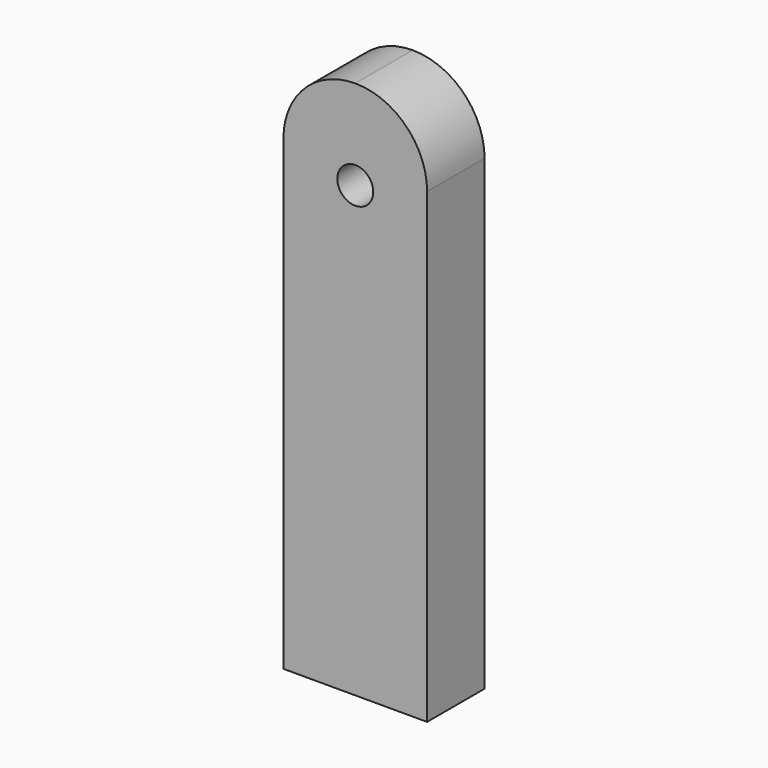
from build123d import *

# Parameters (mm, degrees)
F0_R     = 5
F1_DEPTH = 20
F3_D     = 5
F3_DEPTH = 15
F3_TIP   = 1.5021515476


with BuildPart() as f1:
    # F0 (on Front) → F1 (new body)
    with BuildSketch(Plane.XZ):
        with BuildLine():
            Line((-20, -75), (20, -75))
            Line((20, -75), (20, 55))
            ThreePointArc((20, 55), (14.1421356237, 69.1421356237), (0, 75))
            ThreePointArc((0, 75), (-14.1421356237, 69.1421356237), (-20, 55))
            Line((-20, 55), (-20, -75))
        make_face()
        with Locations((0, 50)):
            Circle(F0_R, mode=Mode.SUBTRACT)
    extrude(amount=F1_DEPTH)

    # F3
    with Locations(Plane(origin=(0, 0, -75), x_dir=(1, 0, 0), z_dir=(0, 0, -1))):
        with Locations((-10, 10), (10, 10)):
            Hole(F3_D / 2, depth=F3_DEPTH)
            with Locations((0, 0, -(F3_DEPTH + F3_TIP / 2))):  # 118° drill point
                Cone(0, F3_D / 2, F3_TIP, mode=Mode.SUBTRACT)


solid = f1.part
